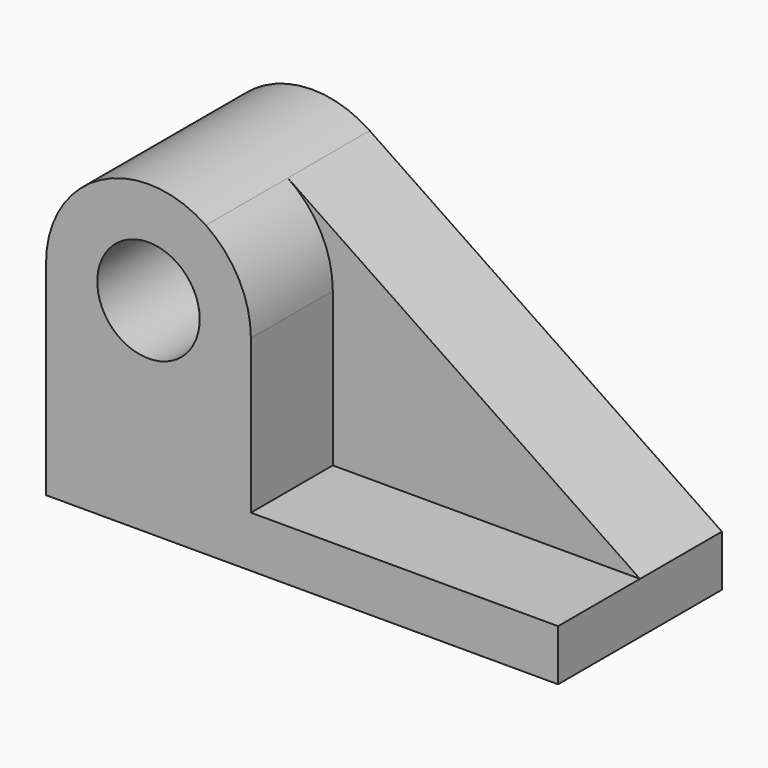
from build123d import *

# Parameters (mm, degrees)
F1_DEPTH = 25.4
F2_R     = 12.7
F3_DEPTH = 25.4


with BuildPart() as f1:
    # F0 (on Front) → F1 (new body)
    with BuildSketch(Plane.XZ):
        with BuildLine():
            ThreePointArc((-37.03413, 21.034328), (-63.178262, 22.436599), (-76.672003, 0))
            ThreePointArc((-76.672003, 0), (-69.232515, -17.960512), (-51.272003, -25.4))
            ThreePointArc((-51.272003, -25.4), (-33.31149, -17.960512), (-25.872003, 0))
            ThreePointArc((-25.872003, 0), (-28.835403, 11.906259), (-37.03413, 21.034328))
        make_face()
        with BuildLine():
            ThreePointArc((-38.572003, 0), (-42.291747, -8.980256), (-51.272003, -12.7))
            ThreePointArc((-51.272003, -12.7), (-60.252259, 8.980256), (-38.572003, 0))
        make_face(mode=Mode.SUBTRACT)
        with BuildLine():
            Line((-76.672003, 0), (-76.672003, -50.8))
            Line((-76.672003, -50.8), (-51.272003, -50.8))
            Line((-51.272003, -50.8), (-51.272003, -25.4))
            ThreePointArc((-51.272003, -25.4), (-69.232515, -17.960512), (-76.672003, 0))
        make_face()
        with BuildLine():
            Line((-51.272003, -25.4), (-51.272003, -50.8))
            Line((-51.272003, -50.8), (50.327997, -50.8))
            Line((50.327997, -50.8), (50.327997, -38.1))
            Line((50.327997, -38.1), (-37.03413, 21.034328))
            ThreePointArc((-37.03413, 21.034328), (-28.835403, 11.906259), (-25.872003, 0))
            ThreePointArc((-25.872003, 0), (-33.31149, -17.960512), (-51.272003, -25.4))
        make_face()
    extrude(amount=F1_DEPTH)

    # F2 (on face) → F3 (join)
    with BuildSketch(Plane.XZ.offset(25.4)):
        with BuildLine():
            Line((50.327997, -50.8), (50.327997, -38.1))
            Line((50.327997, -38.1), (-25.872003, -38.1))
            Line((-25.872003, -38.1), (-25.872003, 0))
            ThreePointArc((-25.872003, 0), (-28.835403, 11.906259), (-37.03413, 21.034328))
            ThreePointArc((-37.03413, 21.034328), (-63.178262, 22.436599), (-76.672003, 0))
            Line((-76.672003, 0), (-76.672003, -38.1))
            Line((-76.672003, -38.1), (-76.672003, -50.8))
            Line((-76.672003, -50.8), (50.327997, -50.8))
        make_face()
        with Locations((-51.272003, 0)):
            Circle(F2_R, mode=Mode.SUBTRACT)
    extrude(amount=F3_DEPTH)


solid = f1.part
